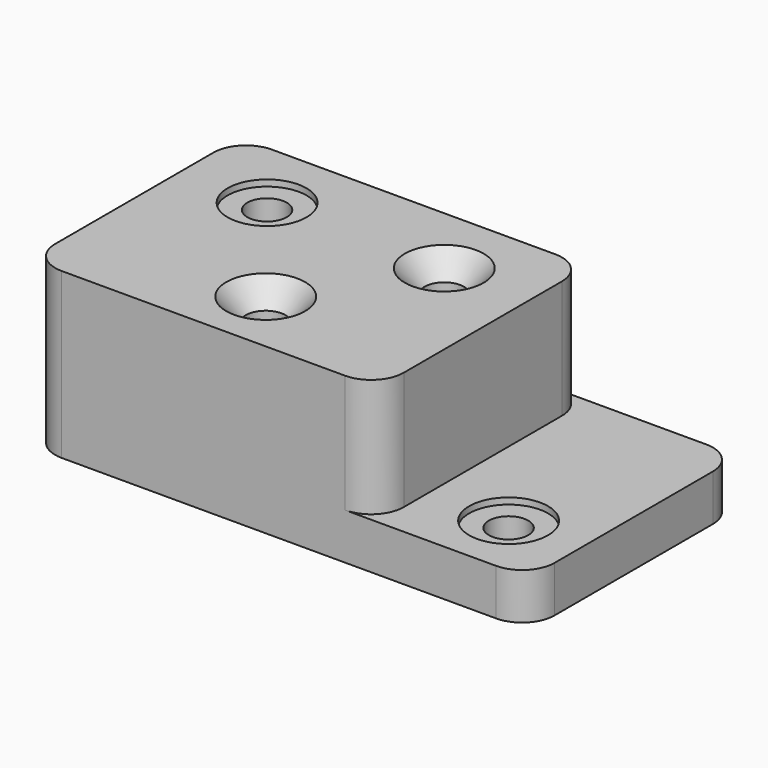
from build123d import *

# Parameters (mm, degrees)
F1_DEPTH       = 127
F2_R           = 15.748
F4_D           = 19.05
F4_START       = 57.15
F4_CBORE_D     = 38.1
F4_CBORE_DEPTH = 3.048
F5_D           = 19.05
F5_CSINK_D     = 38.1
F5_CSINK_ANGLE = 82


with BuildPart() as f1:
    # F0 (on Front) → F1 (new body)
    with BuildSketch(Plane.XZ):
        Polygon((0, 79.502), (0, 0), (241.3, 0), (241.3, 22.352), (168.402, 22.352), (168.402, 79.502), align=None)
    extrude(amount=F1_DEPTH)

    # F2
    f2_edges = [f1.edges().sort_by_distance(p)[0] for p in [
        (241.3, -127, 11.176),
        (241.3, 0, 11.176),
        (168.402, 0, 50.927),
        (168.402, -127, 50.927),
        (0, -127, 39.751),
        (0, 0, 39.751),
    ]]
    fillet(f2_edges, radius=F2_R)

    # F4 (through all)
    # its depths count from where the whole tool has entered the part; down to there all is cleared
    with Locations(Plane.XY.offset(79.502)):
        with Locations((41.402, -35.052, 0), (206.248, -95.25, -F4_START)):
            CounterBoreHole(F4_D / 2, F4_CBORE_D / 2, F4_CBORE_DEPTH)

    # F5 (through all)
    with Locations(Plane.XY.offset(79.502)):
        with Locations((127, -35.052), (88.9, -95.25)):
            CounterSinkHole(F5_D / 2, F5_CSINK_D / 2, counter_sink_angle=F5_CSINK_ANGLE)


solid = f1.part
